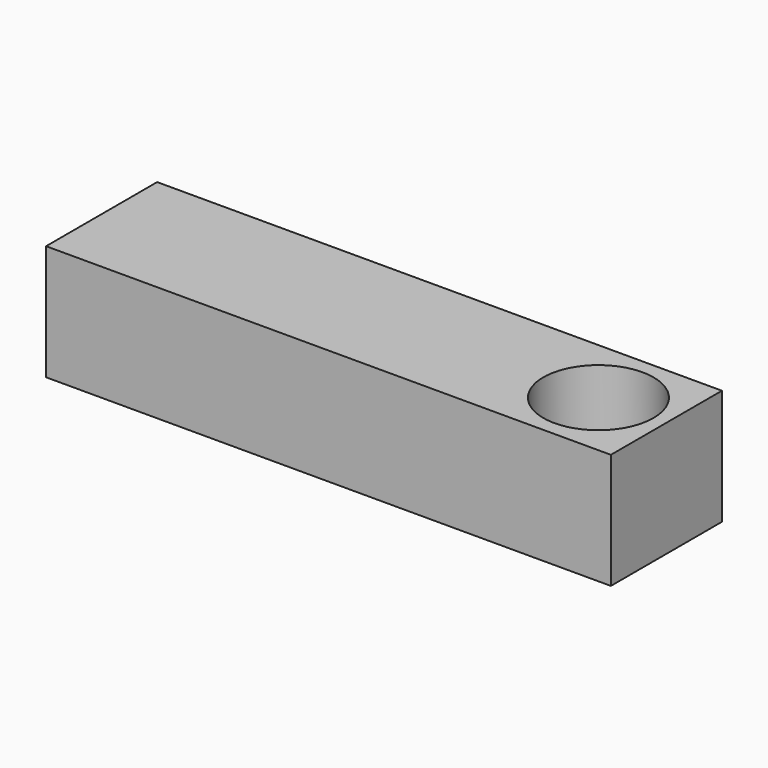
from build123d import *

# Parameters (mm, degrees)
F0_W     = 2.906225
F0_H     = 0.593925
F1_DEPTH = 0.71433
F2_R     = 0.283514
F3_DEPTH = 0.703704


with BuildPart() as f1:
    # F0 (on Front) → F1 (new body)
    with BuildSketch(Plane.XZ):
        with Locations((1.453113, 0.296962)):
            Rectangle(F0_W, F0_H)
    extrude(amount=-F1_DEPTH)

    # F2 (on face) → F3 (cut)
    with BuildSketch(Plane.XY.offset(0.593925)):
        with Locations((2.556429, 0.357165)):
            Circle(F2_R)
    extrude(amount=-F3_DEPTH, mode=Mode.SUBTRACT)


solid = f1.part
